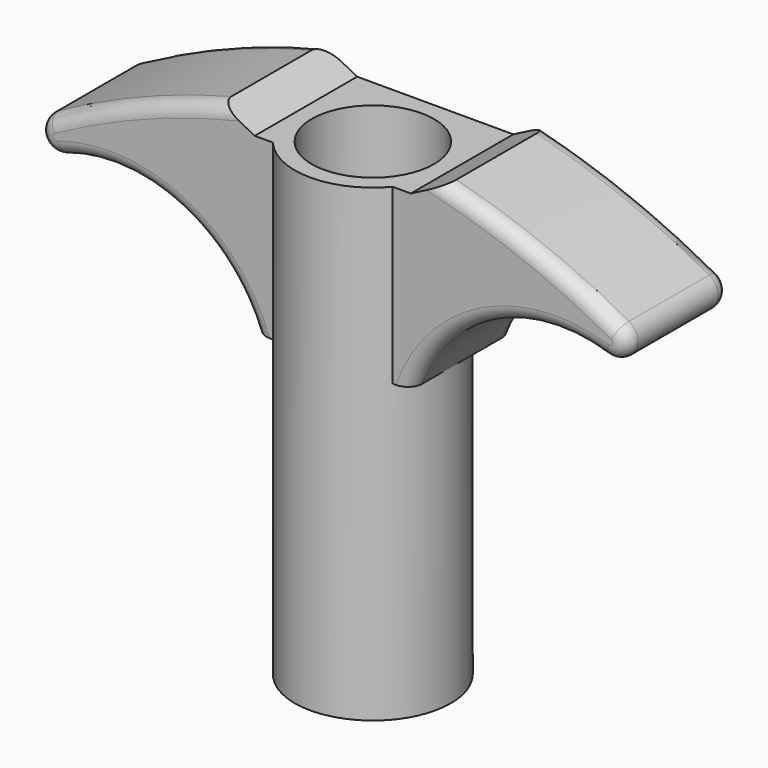
from build123d import *

# Parameters (mm, degrees)
PAD001_DEPTH      = 11
FILLET001_R       = 1.2
SKETCH005_W       = 6.70052
SKETCH005_H       = 40.2844
SKETCH006_R       = 5.25
POCKET_DEPTH      = 0.001
POCKET_DEPTH_BACK = 143.4094


with BuildPart() as part:
    # Sketch004 → Pad001 (new body)
    with BuildSketch(Plane.XZ.offset(-6.7)):
        with BuildLine():
            Line((-6.70052, 141.8844), (-9.6647, 143.4084))
            ThreePointArc((-9.6647, 143.4084), (-17.256712, 140.927389), (-24.479189, 137.517128))
            ThreePointArc((-24.479189, 137.517128), (-25.118047, 135.6415), (-23.310129, 134.830602))
            ThreePointArc((-6.70052, 127), (-13.446839, 134.221029), (-23.310129, 134.830602))
            Line((0, 127), (-6.70052, 127))
            Line((0, 141.8844), (0, 127))
            Line((-6.70052, 141.8844), (0, 141.8844))
        make_face()
    pad001 = extrude(amount=PAD001_DEPTH)

    # Mirrored: Pad001 across Sketch004 V_Axis
    add(pad001.mirror(Plane(origin=(0, 6.7, 0), x_dir=(0, -1, 0), z_dir=(1, 0, 0))))

    # Fillet001
    fillet001_edges = [part.edges().sort_by_distance(p)[0] for p in [
        (17.256712, 6.7, 140.927389),
        (17.256712, -4.3, 140.927389),
        (-17.256712, -4.3, 140.927389),
        (-17.256712, 6.7, 140.927389),
    ]]
    fillet(fillet001_edges, radius=FILLET001_R)

    # Sketch005 → Revolution (revolve)
    with BuildSketch(Plane.XZ):
        with Locations((-3.35026, 121.7422)):
            Rectangle(SKETCH005_W, SKETCH005_H)
    revolve(axis=Axis((0, 0, 0), (0, 0, 1)))

    # Sketch006 → Pocket (cut, two sides)
    with BuildSketch(Plane.XY) as pocket_sk:
        Circle(SKETCH006_R)
    extrude(amount=-POCKET_DEPTH, mode=Mode.SUBTRACT)
    extrude(pocket_sk.sketch, amount=POCKET_DEPTH_BACK, mode=Mode.SUBTRACT)


solid = part.part
